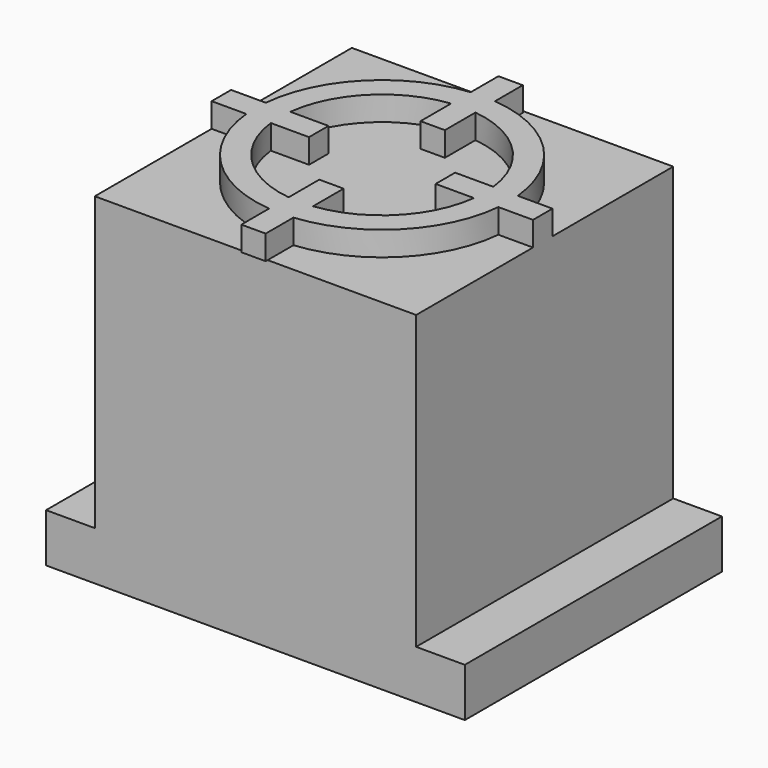
from build123d import *

# Parameters (mm, degrees)
SKETCH040_W      = 0.5
SKETCH040_H      = 2
SKETCH040_W_2    = 2
SKETCH040_H_2    = 0.5
EXTRUDE046_DEPTH = 0.5
SKETCH014_W      = 2.5
SKETCH014_H      = 3.5
EXTRUDE015_DEPTH = 4.5
EXTRUDE014_DEPTH = 6.6
SKETCH038_R      = 2.6
SKETCH038_R_2    = 2.1
EXTRUDE_DEPTH    = 0.5


with BuildPart() as extrude046:
    # Sketch040 → Extrude046 (new body)
    with BuildSketch(Plane.XY.offset(20)):
        with Locations((0, 2.3)):
            Rectangle(SKETCH040_W, SKETCH040_H)
        with Locations((0, -2.3)):
            Rectangle(SKETCH040_W, SKETCH040_H)
        with Locations((-2.3, 0)):
            Rectangle(SKETCH040_W_2, SKETCH040_H_2)
        with Locations((2.3, 0)):
            Rectangle(SKETCH040_W_2, SKETCH040_H_2)
    extrude(amount=EXTRUDE046_DEPTH)


with BuildPart() as extrude046_1:
    # Extrude046 placement: moved
    add(extrude046.part.moved(Location((0, 0, -13))))


with BuildPart() as extrude015:
    # Sketch014 → Extrude015 (new body)
    with BuildSketch(Plane(origin=(0, 0, -10), x_dir=(1, 0, 0), z_dir=(0, 0, -1))):
        Rectangle(SKETCH014_W, SKETCH014_H)
    extrude(amount=-EXTRUDE015_DEPTH)


with BuildPart() as extrude015_1:
    # Extrude015 placement: moved
    add(extrude015.part.moved(Location((0, 0, 10))))


with BuildPart() as cap002:
    # Sketch013 → Extrude014 (new body)
    with BuildSketch(Plane.XZ.offset(10)):
        Polygon((-3.3, 7), (3.3, 7), (3.3, 1), (4.3, 1), (4.3, 0), (-4.3, 0), (-4.3, 1), (-3.3, 1), align=None)
    extrude(amount=-EXTRUDE014_DEPTH)


with BuildPart() as cap002_1:
    # Extrude014 placement: moved
    add(cap002.part.moved(Location((0, 6.75, 0))))

    # Cut023: cut Extrude015
    add(extrude015_1.part, mode=Mode.SUBTRACT)


with BuildPart() as focus:
    # Sketch038 → Extrude (new body)
    with BuildSketch(Plane.XY.offset(20)):
        Circle(SKETCH038_R)
        Circle(SKETCH038_R_2, mode=Mode.SUBTRACT)
    extrude(amount=EXTRUDE_DEPTH)


with BuildPart() as focus_1:
    # Extrude placement: moved
    add(focus.part.moved(Location((0, 0, -13))))

    # Fusion034: union Extrude046, cap002
    add(extrude046_1.part)
    add(cap002_1.part)


with BuildPart() as focus_2:
    # Fusion034 placement: moved
    add(focus_1.part.moved(Location((2, 0, 50))))


solid = focus_2.part
